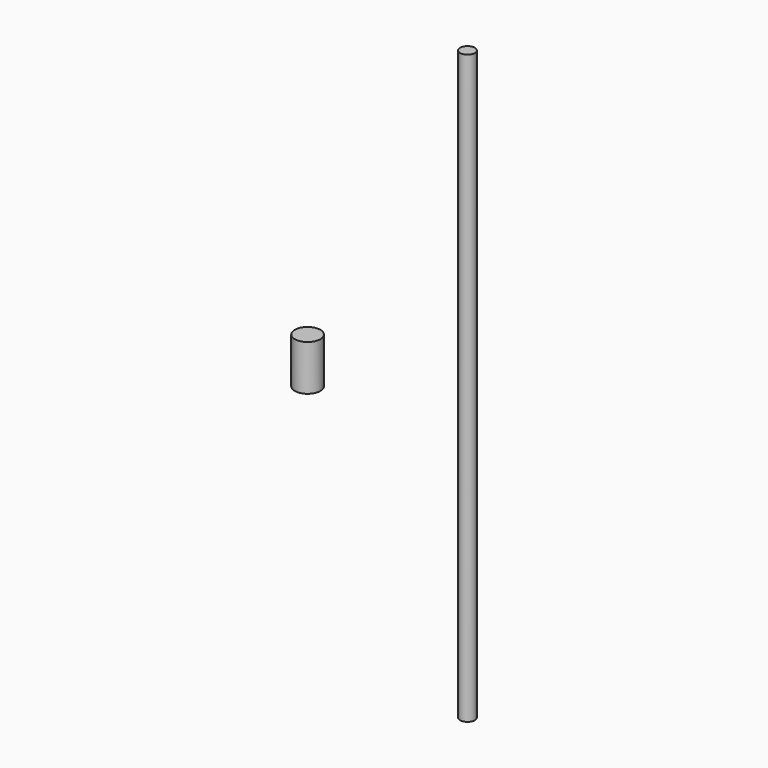
from build123d import *

# Parameters (mm, degrees)
F0_R     = 4
F1_DEPTH = 161
F2_R     = 7
F3_DEPTH = 25


with BuildPart() as f1:
    # F0 (on Top) → F1 (new body, symmetric)
    with BuildSketch(Plane.XY):
        Circle(F0_R)
    extrude(amount=F1_DEPTH, both=True)


with BuildPart() as f3:
    # F2 (on Top) → F3 (new body)
    with BuildSketch(Plane.XY):
        with Locations((-52.113905549, -44.4112122059)):
            Circle(F2_R)
    extrude(amount=F3_DEPTH)


solid = Compound([f1.part, f3.part])
